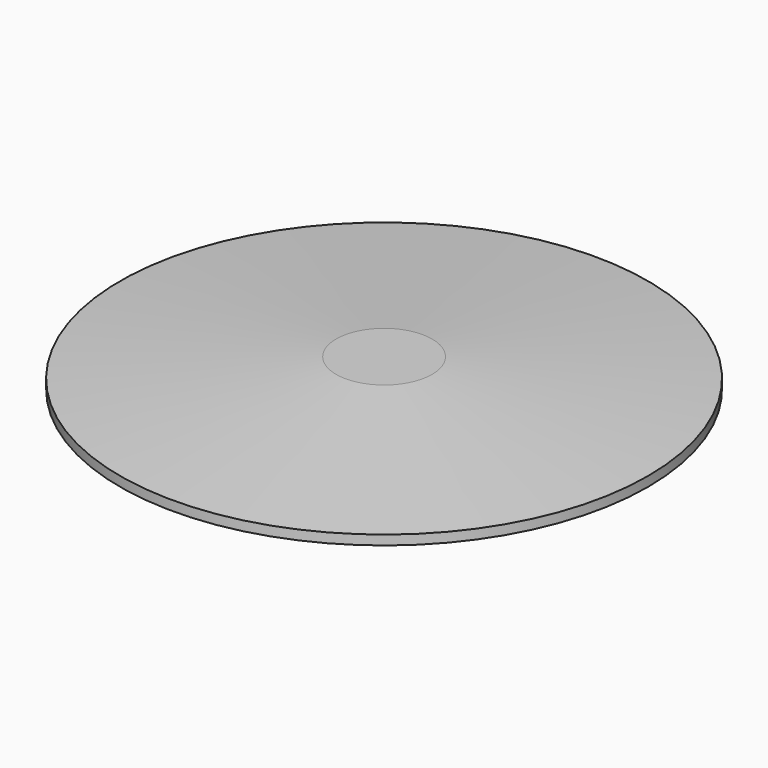
from build123d import *

# Parameters (mm, degrees)
SKETCH_R     = 17.5
PAD_DEPTH    = 5
SKETCH001_R  = 27.5
PAD001_DEPTH = 1
SKETCH003_R  = 27.5
SKETCH002_R  = 5
SKETCH006_R  = 13.5
PAD002_DEPTH = 5
SKETCH004_R  = 27.5
PAD003_DEPTH = 1
SKETCH007_R  = 27.5
SKETCH005_R  = 5


with BuildPart() as body:
    # Sketch → Pad (new body)
    with BuildSketch(Plane.XY):
        Circle(SKETCH_R)
    extrude(amount=PAD_DEPTH)

    # Sketch001 (on Face3 of Pad) → Pad001 (join)
    with BuildSketch(Plane.XY.offset(5)):
        Circle(SKETCH001_R)
    extrude(amount=PAD001_DEPTH)

    # Sketch003 (on Face3 of Pad001) → AdditiveLoft section 0
    with BuildSketch(Plane.XY.offset(6)):
        Circle(SKETCH003_R)
    # Sketch002 → AdditiveLoft section 1
    with BuildSketch(Plane.XY.offset(8)):
        Circle(SKETCH002_R)
    loft()


with BuildPart() as body001:
    # Sketch006 → Pad002 (new body)
    with BuildSketch(Plane.XY):
        Circle(SKETCH006_R)
    extrude(amount=PAD002_DEPTH)

    # Sketch004 (on Face3 of Pad002) → Pad003 (join)
    with BuildSketch(Plane.XY.offset(5)):
        Circle(SKETCH004_R)
    extrude(amount=PAD003_DEPTH)

    # Sketch007 (on Face3 of Pad003) → AdditiveLoft001 section 0
    with BuildSketch(Plane.XY.offset(6)):
        Circle(SKETCH007_R)
    # Sketch005 → AdditiveLoft001 section 1
    with BuildSketch(Plane.XY.offset(8)):
        Circle(SKETCH005_R)
    loft()


solid = Compound([body.part, body001.part])
